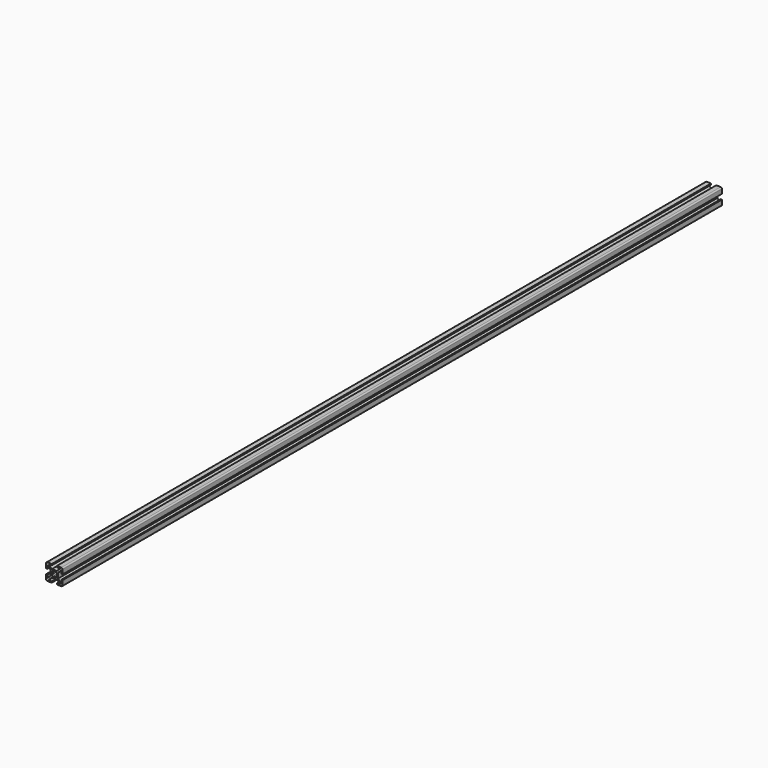
from build123d import *

# Parameters (mm, degrees)
CYLINDER017_R             = 2.75
CYLINDER017_DEPTH         = 1000
BOX006_W                  = 2
BOX006_H                  = 7.1
BOX006_DEPTH              = 1000
BOX007_W                  = 2
BOX007_H                  = 7.1
BOX007_DEPTH              = 1000
FUSION005_PLACEMENT_ANGLE = 45
PAD002_DEPTH              = 1000
FILLET_R                  = 1.5
FILLET_PLACEMENT_ANGLE    = 90


with BuildPart() as cylinder017:
    # Cylinder017 → Cylinder017 (new body)
    with BuildSketch(Plane.XY):
        Circle(CYLINDER017_R)
    extrude(amount=CYLINDER017_DEPTH)


with BuildPart() as cube006:
    # Box006 → Box006 (new body)
    with BuildSketch(Plane(origin=(-1, -3.55, 0), x_dir=(1, 0, 0), z_dir=(0, 0, 1))):
        with Locations((1, 3.55)):
            Rectangle(BOX006_W, BOX006_H)
    extrude(amount=BOX006_DEPTH)


with BuildPart() as fusion006:
    # Box007 → Box007 (new body)
    with BuildSketch(Plane(origin=(3.55, -1, 0), x_dir=(0, 1, 0), z_dir=(0, 0, 1))):
        with Locations((1, 3.55)):
            Rectangle(BOX007_W, BOX007_H)
    extrude(amount=BOX007_DEPTH)

    # Fusion005: union Cube006
    add(cube006.part)


with BuildPart() as fusion006_1:
    # Fusion005 placement: moved
    add(fusion006.part.rotate(Axis((0, 0, 0), (0, 0, 1)), FUSION005_PLACEMENT_ANGLE))

    # Fusion006: union Cylinder017
    add(cylinder017.part)


with BuildPart() as obj1:
    # Sketch002 → Pad002 (new body)
    with BuildSketch(Plane.XY):
        Polygon((-10, -10), (-3.1, -10), (-3.1, -8.5), (-7.1, -8.5), (-3.1, -4.5), (3.1, -4.5), (7.1, -8.5), (3.1, -8.5), (3.1, -10), (10, -10), (10, -3.1), (8.5, -3.1), (8.5, -7.1), (4.5, -3.1), (4.5, 3.1), (8.5, 7.1), (8.5, 3.1), (10, 3.1), (10, 10), (3.1, 10), (3.1, 8.5), (7.1, 8.5), (3.1, 4.5), (-3.1, 4.5), (-7.1, 8.5), (-3.1, 8.5), (-3.1, 10), (-10, 10), (-10, 3.1), (-8.5, 3.1), (-8.5, 7.1), (-4.5, 3.1), (-4.5, -3.1), (-8.5, -7.1), (-8.5, -3.1), (-10, -3.1), align=None)
    extrude(amount=PAD002_DEPTH)

    # Cut007: cut Fusion006
    add(fusion006_1.part, mode=Mode.SUBTRACT)

    # Fillet
    fillet_edges = [obj1.edges().sort_by_distance(p)[0] for p in [
        (10, -10, 500),
        (-10, -10, 500),
        (10, 10, 500),
        (-10, 10, 500),
    ]]
    fillet(fillet_edges, radius=FILLET_R)


with BuildPart() as obj1_1:
    # Fillet placement: moved
    add(obj1.part.moved(Location((-25, 78, 47))).rotate(Axis((-25, 78, 47), (1, 0, 0)), FILLET_PLACEMENT_ANGLE))


solid = obj1_1.part
